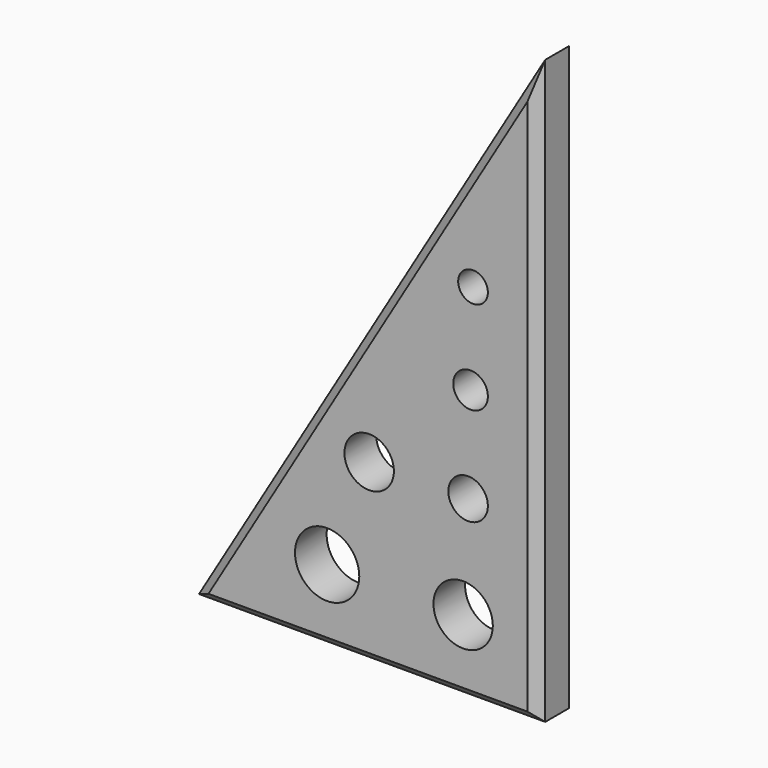
from build123d import *

# Parameters (mm, degrees)
F1_DEPTH  = 8
F3_DEPTH  = 8
F5_DEPTH  = 25
F7_DEPTH  = 25
F9_DEPTH  = 25
F11_DEPTH = 8
F13_DEPTH = 25
F14_R     = 6.3379866709
F14_R_2   = 4
F14_R_3   = 6.8285415101
F14_R_4   = 3.5
F14_R_5   = 5.2949091489
F14_R_6   = 3
F15_DEPTH = 8
F16_R     = 4
F16_R_2   = 3.5
F16_R_3   = 3
F17_DEPTH = 25
F18_R     = 6.5
F18_R_2   = 6
F19_DEPTH = 25
F20_R     = 6.5
F20_R_2   = 5
F21_DEPTH = 25
F22_R     = 6
F22_R_2   = 5
F23_DEPTH = 8
F24_R     = 9.6843488415
F24_R_2   = 6.5
F25_DEPTH = 8
F26_R     = 6.5
F26_R_2   = 6
F27_DEPTH = 8
F29_DEPTH = 25
F30_SIZE  = 2


with BuildPart() as f1:
    # F0 (on Front) → F1 (new body)
    with BuildSketch(Plane.XZ):
        Polygon((-70, -74.8061388731), (0, -74.8061388731), (0, 65.1938611269), align=None)
    extrude(amount=F1_DEPTH)

    # F2 (on face) → F3 (join)
    with BuildSketch(Plane.XZ.offset(8)):
        Polygon((-70, -74.8061388731), (0, 65.1938611269), (0, 115.1938611269), align=None)
    extrude(amount=-F3_DEPTH)

    # F4 (on face) → F5 (cut)
    with BuildSketch(Plane.XZ.offset(8)):
        Polygon((0, 65.1938611269), (0, 115.1938611269), (-70, -74.8061388731), align=None)
    extrude(amount=-F5_DEPTH, mode=Mode.SUBTRACT)

    # F6 (on face) → F7 (cut)
    with BuildSketch(Plane.XZ.offset(8)):
        with BuildLine():
            Line((-10, -59.8061388731), (-10, -64.8061388731))
            ThreePointArc((-10, -64.8061388731), (-6.4644660941, -63.341672779), (-5, -59.8061388731))
            ThreePointArc((-5, -59.8061388731), (-6.4644660941, -56.2706049672), (-10, -54.8061388731))
            Line((-10, -54.8061388731), (-10, -59.8061388731))
        make_face()
        with BuildLine():
            ThreePointArc((-10, -54.8061388731), (-15, -59.8061388731), (-10, -64.8061388731))
            Line((-10, -64.8061388731), (-10, -59.8061388731))
            Line((-10, -59.8061388731), (-10, -54.8061388731))
        make_face()
        with BuildLine():
            Line((-10, -38.8061388731), (-10, -42.8061388731))
            ThreePointArc((-10, -42.8061388731), (-7.1715728753, -41.6345659978), (-6, -38.8061388731))
            ThreePointArc((-6, -38.8061388731), (-7.1715728753, -35.9777117484), (-10, -34.8061388731))
            Line((-10, -34.8061388731), (-10, -38.8061388731))
        make_face()
        with BuildLine():
            ThreePointArc((-10, -34.8061388731), (-14, -38.8061388731), (-10, -42.8061388731))
            Line((-10, -42.8061388731), (-10, -38.8061388731))
            Line((-10, -38.8061388731), (-10, -34.8061388731))
        make_face()
        with BuildLine():
            Line((-10, -19.3061388731), (-10, -22.8061388731))
            ThreePointArc((-10, -22.8061388731), (-7.5251262658, -21.7810126073), (-6.5, -19.3061388731))
            ThreePointArc((-6.5, -19.3061388731), (-7.5251262658, -16.8312651389), (-10, -15.8061388731))
            Line((-10, -15.8061388731), (-10, -19.3061388731))
        make_face()
        with BuildLine():
            ThreePointArc((-10, -15.8061388731), (-13.5, -19.3061388731), (-10, -22.8061388731))
            Line((-10, -22.8061388731), (-10, -19.3061388731))
            Line((-10, -19.3061388731), (-10, -15.8061388731))
        make_face()
        with BuildLine():
            ThreePointArc((-7, -0.8061388731), (-12.1213203436, 1.3151814705), (-10, -3.8061388731))
            ThreePointArc((-10, -3.8061388731), (-7.8786796564, -2.9274592167), (-7, -0.8061388731))
        make_face()
    extrude(amount=-F7_DEPTH, mode=Mode.SUBTRACT)

    # F8 (on face) → F9 (cut)
    with BuildSketch(Plane.XZ.offset(8)):
        Polygon((0, 35.1938611269), (0, 65.1938611269), (-70, -74.8061388731), align=None)
    extrude(amount=-F9_DEPTH, mode=Mode.SUBTRACT)

    # F10 (on face) → F11 (join)
    with BuildSketch(Plane.XZ.offset(8)):
        Polygon((5, 43.051003984), (0, 35.1938611269), (0, -74.8061388731), (5, -74.8061388731), align=None)
    extrude(amount=-F11_DEPTH)

    # F12 (on face) → F13 (cut)
    with BuildSketch(Plane.XZ.offset(8)):
        Polygon((5, 43.051003984), (-70, -74.8061388731), (-65, -74.8061388731), align=None)
    extrude(amount=-F13_DEPTH, mode=Mode.SUBTRACT)

    # F14 (on face) → F15 (join)
    with BuildSketch(Plane.XZ.offset(8)):
        with Locations((-10, -38.8061388731)):
            Circle(F14_R)
        with Locations((-10, -38.8061388731)):
            Circle(F14_R_2, mode=Mode.SUBTRACT)
        with Locations((-10, -38.8061388731)):
            Circle(F14_R_2)
        with Locations((-10, -19.3061388731)):
            Circle(F14_R_3)
        with Locations((-10, -19.3061388731)):
            Circle(F14_R_4, mode=Mode.SUBTRACT)
        with Locations((-10, -19.3061388731)):
            Circle(F14_R_4)
        with Locations((-10, -0.8061388731)):
            Circle(F14_R_5)
        with Locations((-10, -0.8061388731)):
            Circle(F14_R_6, mode=Mode.SUBTRACT)
        with Locations((-10, -0.8061388731)):
            Circle(F14_R_6)
    extrude(amount=-F15_DEPTH)

    # F16 (on face) → F17 (cut)
    with BuildSketch(Plane.XZ.offset(8)):
        with Locations((-9, -38.8061388731)):
            Circle(F16_R)
        with Locations((-8.5, -19.3061388731)):
            Circle(F16_R_2)
        with Locations((-8, -0.8061388731)):
            Circle(F16_R_3)
    extrude(amount=-F17_DEPTH, mode=Mode.SUBTRACT)

    # F18 (on face) → F19 (cut)
    with BuildSketch(Plane.XZ.offset(8)):
        with Locations((-31.5, -59.8061388731)):
            Circle(F18_R)
        with Locations((-29, -38.8061388731)):
            Circle(F18_R_2)
    extrude(amount=-F19_DEPTH, mode=Mode.SUBTRACT)

    # F20 (on face) → F21 (cut)
    with BuildSketch(Plane.XZ.offset(8)):
        with Locations((-10, -59.8061388731)):
            Circle(F20_R)
        with Locations((-10, -59.8061388731)):
            Circle(F20_R_2, mode=Mode.SUBTRACT)
    extrude(amount=-F21_DEPTH, mode=Mode.SUBTRACT)

    # F22 (on face) → F23 (join)
    with BuildSketch(Plane.XZ.offset(8)):
        with Locations((-29, -38.8061388731)):
            Circle(F22_R)
        with Locations((-29, -38.8061388731)):
            Circle(F22_R_2, mode=Mode.SUBTRACT)
    extrude(amount=-F23_DEPTH)

    # F24 (on face) → F25 (join)
    with BuildSketch(Plane.XZ.offset(8)):
        with Locations((-31.5, -59.8061388731)):
            Circle(F24_R)
        with Locations((-31.5, -59.8061388731)):
            Circle(F24_R_2, mode=Mode.SUBTRACT)
        with Locations((-31.5, -59.8061388731)):
            Circle(F24_R_2)
    extrude(amount=-F25_DEPTH)

    # F26 (on face) → F27 (join)
    with BuildSketch(Plane.XZ.offset(8)):
        with Locations((-10, -59.8061388731)):
            Circle(F26_R)
        with Locations((-10, -59.8061388731)):
            Circle(F26_R_2, mode=Mode.SUBTRACT)
    extrude(amount=-F27_DEPTH)

    # F28 (on face) → F29 (cut)
    with BuildSketch(Plane.XZ.offset(8)):
        with BuildLine():
            ThreePointArc((-33.7916220485, -54.4677933458), (-43.259967738, -62.8182430641), (-31, -59.8061388731))
            Line((-31, -59.8061388731), (-37.5, -59.8061388731))
            Line((-37.5, -59.8061388731), (-33.7916220485, -54.4677933458))
        make_face()
        with BuildLine():
            Line((-37.5, -59.8061388731), (-31, -59.8061388731))
            ThreePointArc((-31, -59.8061388731), (-31.740032262, -56.7940346821), (-33.7916220485, -54.4677933458))
            Line((-33.7916220485, -54.4677933458), (-37.5, -59.8061388731))
        make_face()
    extrude(amount=-F29_DEPTH, mode=Mode.SUBTRACT)

    # F30
    f30_edges = [f1.edges().sort_by_distance(p)[0] for p in [
        (5, -8, -15.877567),
        (-30, -8, -15.877567),
        (-30, -8, -74.806139),
    ]]
    chamfer(f30_edges, length=F30_SIZE)


solid = f1.part
